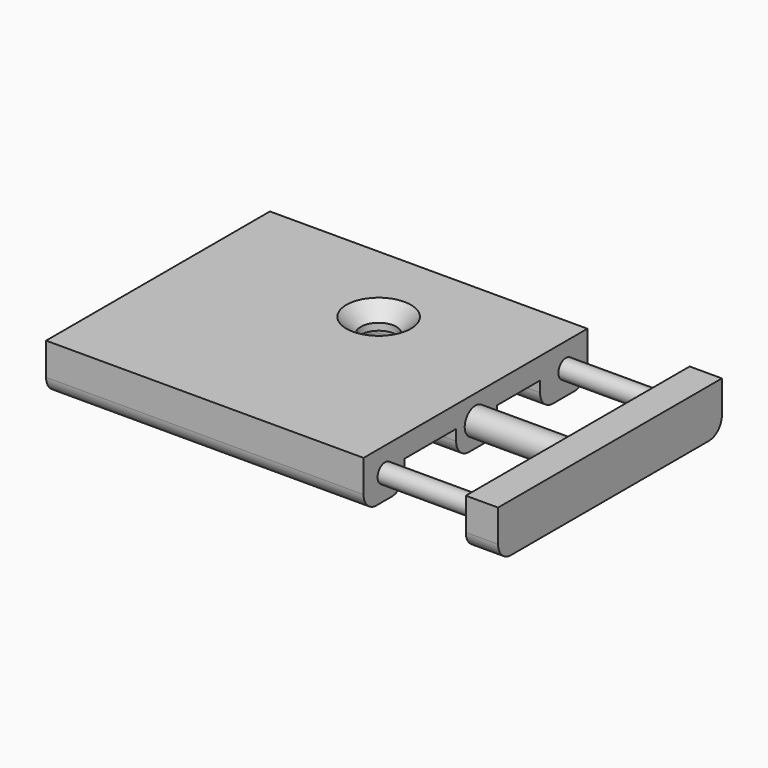
from build123d import *

# Parameters (mm, degrees)
SKETCH_W         = 59
SKETCH_H         = 52
PAD_DEPTH        = 9
SKETCH001_R      = 1.75
SKETCH001_R_2    = 2.5
PAD001_DEPTH     = 19
SKETCH002_W      = 52
SKETCH002_H      = 9
PAD002_DEPTH     = 6
HOLE_D           = 6.6
HOLE_DEPTH       = 25
HOLE_CSINK_D     = 12
HOLE_CSINK_ANGLE = 90
SKETCH004_W      = 59
SKETCH004_H      = 10
SKETCH004_H_2    = 12
POCKET_DEPTH     = 5
FILLET_R         = 3


with BuildPart() as part:
    # Sketch → Pad (new body)
    with BuildSketch(Plane.XY):
        with Locations((29.5, -26)):
            Rectangle(SKETCH_W, SKETCH_H)
    extrude(amount=PAD_DEPTH)

    # Sketch001 (on Face2 of Pad) → Pad001 (join)
    with BuildSketch(Plane.YZ.offset(59)):
        with Locations((-47, 4.5)):
            Circle(SKETCH001_R)
        with Locations((-5, 4.5)):
            Circle(SKETCH001_R)
        with Locations((-26, 4.5)):
            Circle(SKETCH001_R_2)
    extrude(amount=PAD001_DEPTH)

    # Sketch002 (on Face12 of Pad001) → Pad002 (join)
    with BuildSketch(Plane.YZ.offset(78)):
        with Locations((-26, 4.5)):
            Rectangle(SKETCH002_W, SKETCH002_H)
    extrude(amount=PAD002_DEPTH)

    # Hole
    with Locations(Plane.XY.offset(9)):
        with Locations((33, -16)):
            CounterSinkHole(HOLE_D / 2, HOLE_CSINK_D / 2, depth=HOLE_DEPTH, counter_sink_angle=HOLE_CSINK_ANGLE)

    # Sketch004 (on Face12 of Hole) → Pocket (cut)
    with BuildSketch(Plane(origin=(0, 0, 0), x_dir=(1, 0, 0), z_dir=(0, 0, -1))):
        with Locations((29.5, 16)):
            Rectangle(SKETCH004_W, SKETCH004_H)
        with Locations((29.5, 36.5)):
            Rectangle(SKETCH004_W, SKETCH004_H_2)
    extrude(amount=-POCKET_DEPTH, mode=Mode.SUBTRACT)

    # Fillet
    fillet_edges = [part.edges().sort_by_distance(p)[0] for p in [
        (29.5, 0, 0),
        (81, 0, 0),
        (29.5, -11, 0),
        (29.5, -21, 0),
        (29.5, -30.5, 0),
        (29.5, -42.5, 0),
        (29.5, -52, 0),
        (81, -52, 0),
    ]]
    fillet(fillet_edges, radius=FILLET_R)


solid = part.part
